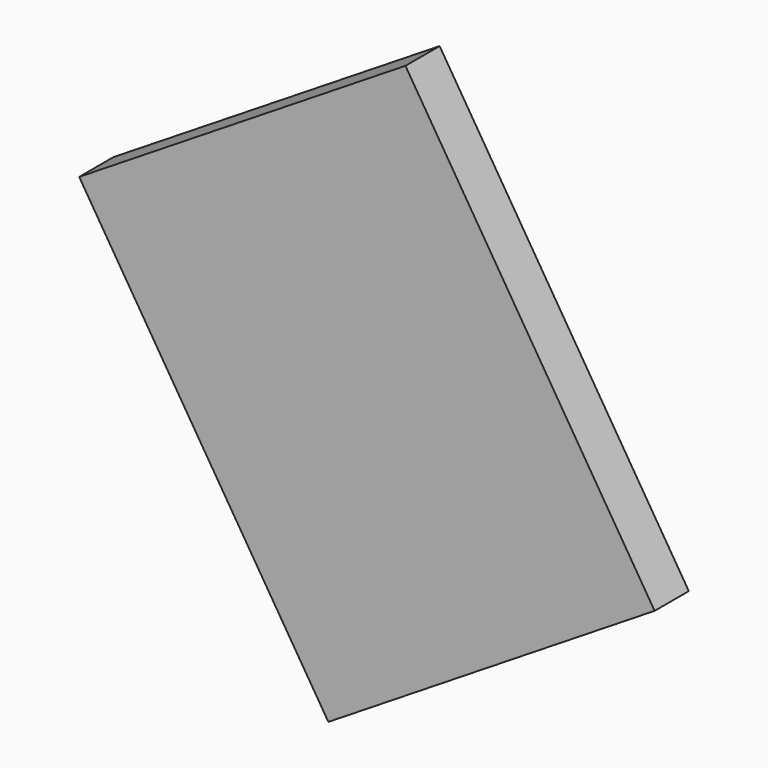
from build123d import *

# Parameters (mm, degrees)
CYLINDER071_R      = 0.5
CYLINDER071_DEPTH  = 0.01
BOX156_W           = 4.5
BOX156_H           = 5.5
BOX156_DEPTH       = 0.5
CUT075_ROLL_ANGLE  = -90
CUT075_PITCH_ANGLE = -32


with BuildPart() as cylinder071:
    # Cylinder071 → Cylinder071 (new body)
    with BuildSketch(Plane(origin=(1, 4.5, 0.49), x_dir=(1, 0, 0), z_dir=(0, 0, 1))):
        Circle(CYLINDER071_R)
    extrude(amount=CYLINDER071_DEPTH)


with BuildPart() as obj1:
    # Box156 → Box156 (new body)
    with BuildSketch(Plane.XY):
        with Locations((2.25, 2.75)):
            Rectangle(BOX156_W, BOX156_H)
    extrude(amount=BOX156_DEPTH)

    # Cut075: cut Cylinder071
    add(cylinder071.part, mode=Mode.SUBTRACT)


with BuildPart() as obj1_1:
    # Cut075 roll: moved
    add(obj1.part.rotate(Axis((0, 0, 0), (1, 0, 0)), CUT075_ROLL_ANGLE))


with BuildPart() as obj1_2:
    # Cut075 pitch: moved
    add(obj1_1.part.rotate(Axis((0, 0, 0), (0, 1, 0)), CUT075_PITCH_ANGLE))


with BuildPart() as obj1_3:
    # Cut075 placement: moved
    add(obj1_2.part.moved(Location((6.020438, 1.64, 45.877147))))


solid = obj1_3.part
